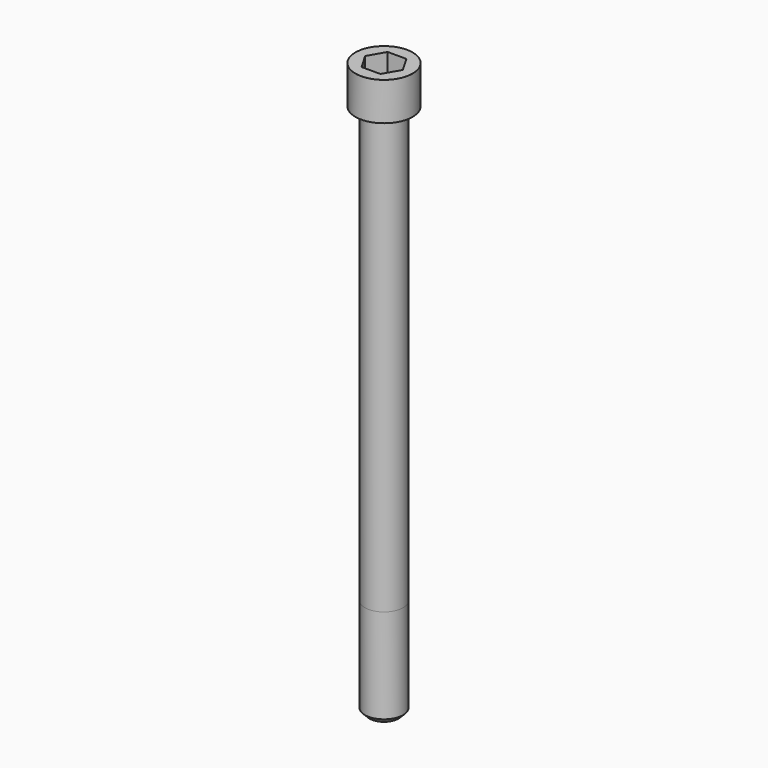
from build123d import *

# Parameters (mm, degrees)
POCKET_DEPTH = 17.1


with BuildPart() as part:
    # Sketch → Revolve (revolve)
    with BuildSketch(Plane.YZ):
        with BuildLine():
            Line((9.999, 0), (15, 0))
            Line((15, 0), (15, 19.97229))
            ThreePointArc((15, 19.97229), (14.991884, 19.991884), (14.97229, 20))
            Line((14.97229, 20), (0, 20))
            Line((0, -280), (0, 20))
            Line((7.5, -280), (0, -280))
            Line((10, -277.5), (7.5, -280))
            Line((10, -228), (10, -277.5))
            Line((9.999, 0), (10, -228))
        make_face()
    revolve(axis=Axis((0, 0, 0), (0, 0, 1)))

    # Sketch001 → Pocket (cut)
    with BuildSketch(Plane.XY.offset(20)):
        Polygon((9.87269, 0), (4.936345, 8.55), (-4.936345, 8.55), (-9.87269, 0), (-4.936345, -8.55), (4.936345, -8.55), align=None)
    extrude(amount=-POCKET_DEPTH, mode=Mode.SUBTRACT)


solid = part.part
